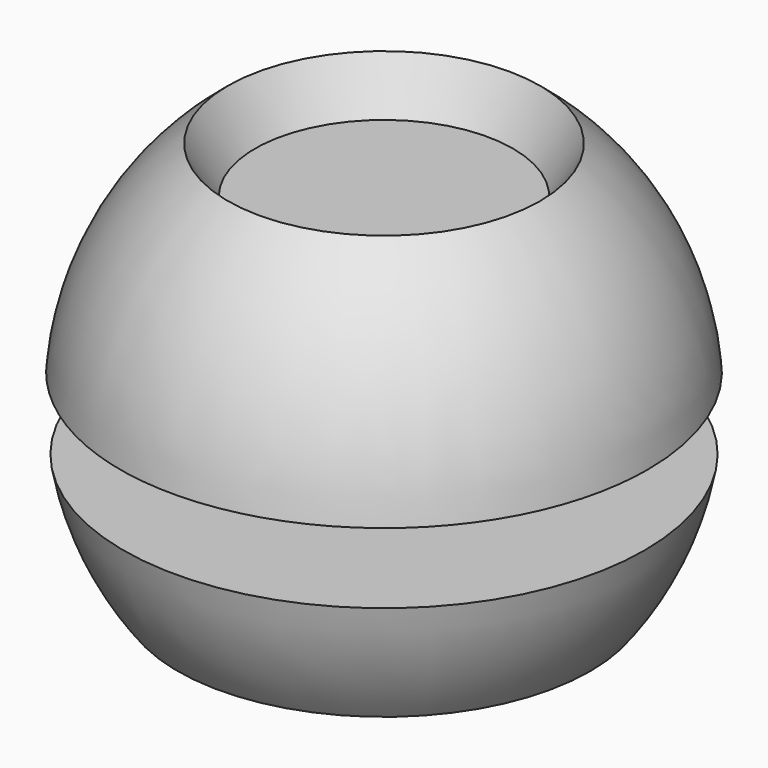
from build123d import *

# Parameters (mm, degrees)
F2_W = 25.197219
F2_H = 7
F1_W = 7.5
F1_H = 7


with BuildPart() as f3:
    # F0 (on Front) → F3 (revolve)
    with BuildSketch(Plane.XZ):
        with BuildLine():
            Line((0, 22), (0, -12))
            Line((0, -12), (20, -12))
            ThreePointArc((20, -12), (25.436094, 8.248895), (15.125565, 26.504356))
            Line((15.125565, 26.504356), (12.5, 22))
            Line((12.5, 22), (0, 22))
        make_face()
    revolve(axis=Axis((0, 0, 5), (0, 0, -1)))

    # F2 (on Front) → F4 (revolve, cut)
    with BuildSketch(Plane.XZ):
        with Locations((16.09861, 3.5)):
            Rectangle(F2_W, F2_H)
    revolve(axis=Axis((0, 0, 5), (0, 0, -1)), mode=Mode.SUBTRACT)


with BuildPart() as f5:
    # F1 (on Front) → F5 (revolve)
    with BuildSketch(Plane.XZ):
        with Locations((7.25, 3.5)):
            Rectangle(F1_W, F1_H)
    revolve(axis=Axis((0, 0, 5), (0, 0, -1)))


solid = Compound([f3.part, f5.part])
